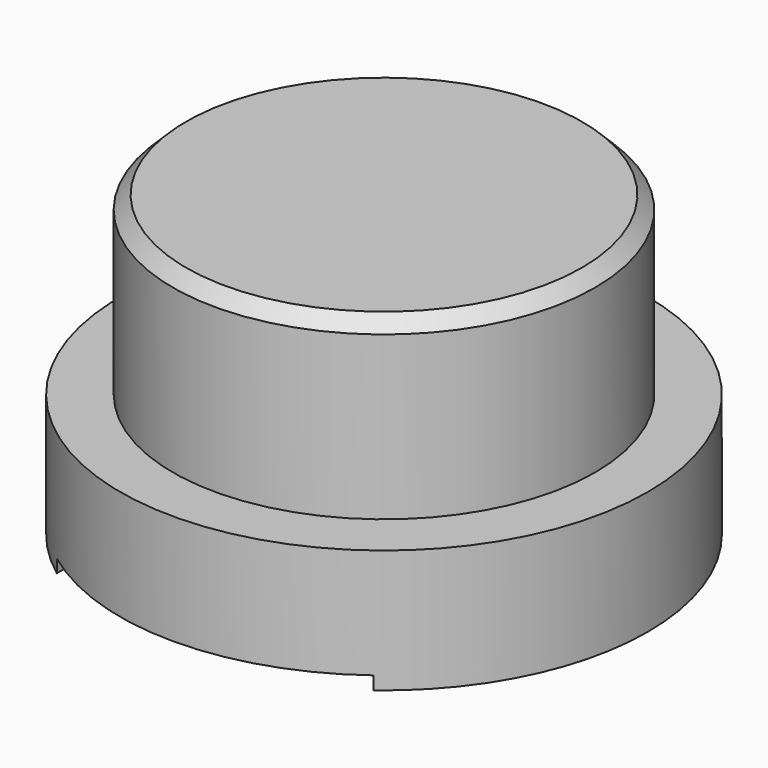
from build123d import *

# Parameters (mm, degrees)
F0_R     = 30
F1_DEPTH = 14
F2_R     = 24
F3_DEPTH = 20
F4_SIZE  = 1.5
F6_DEPTH = 1.5
F8_D     = 4.2
F8_DEPTH = 10
F8_TIP   = 1.2618073


with BuildPart() as f1:
    # F0 (on Top) → F1 (new body)
    with BuildSketch(Plane.XY):
        Circle(F0_R)
    extrude(amount=F1_DEPTH)

    # F2 (on face) → F3 (join)
    with BuildSketch(Plane.XY.offset(14)):
        Circle(F2_R)
    extrude(amount=F3_DEPTH)

    # F4
    f4_edges = [f1.edges().sort_by_distance(p)[0] for p in [
        (-24, 0, 34),
    ]]
    chamfer(f4_edges, length=F4_SIZE)

    # F5 (on face) → F6 (cut)
    with BuildSketch(Plane(origin=(0, 0, 0), x_dir=(1, 0, 0), z_dir=(0, 0, -1))):
        with BuildLine():
            Line((18, 36.3252682028), (-18, 36.3252682028))
            Line((-18, 36.3252682028), (-18, 24))
            ThreePointArc((-18, 24), (0, 30), (18, 24))
            Line((18, 24), (18, 36.3252682028))
        make_face()
        with BuildLine():
            ThreePointArc((18, 24), (0, 30), (-18, 24))
            Line((-18, 24), (-18, -24))
            ThreePointArc((-18, -24), (0, -30), (18, -24))
            Line((18, -24), (18, 24))
        make_face()
        with BuildLine():
            ThreePointArc((18, -24), (0, -30), (-18, -24))
            Line((-18, -24), (-18, -38.8747264979))
            Line((-18, -38.8747264979), (18, -38.8747264979))
            Line((18, -38.8747264979), (18, -24))
        make_face()
    extrude(amount=-F6_DEPTH, mode=Mode.SUBTRACT)

    # F8
    with Locations(Plane(origin=(0, 0, 0), x_dir=(1, 0, 0), z_dir=(0, 0, -1))):
        with Locations((-24.1402154091, 6.5), (24.1402154091, -6.5)):
            Hole(F8_D / 2, depth=F8_DEPTH)
            with Locations((0, 0, -(F8_DEPTH + F8_TIP / 2))):  # 118° drill point
                Cone(0, F8_D / 2, F8_TIP, mode=Mode.SUBTRACT)


solid = f1.part
